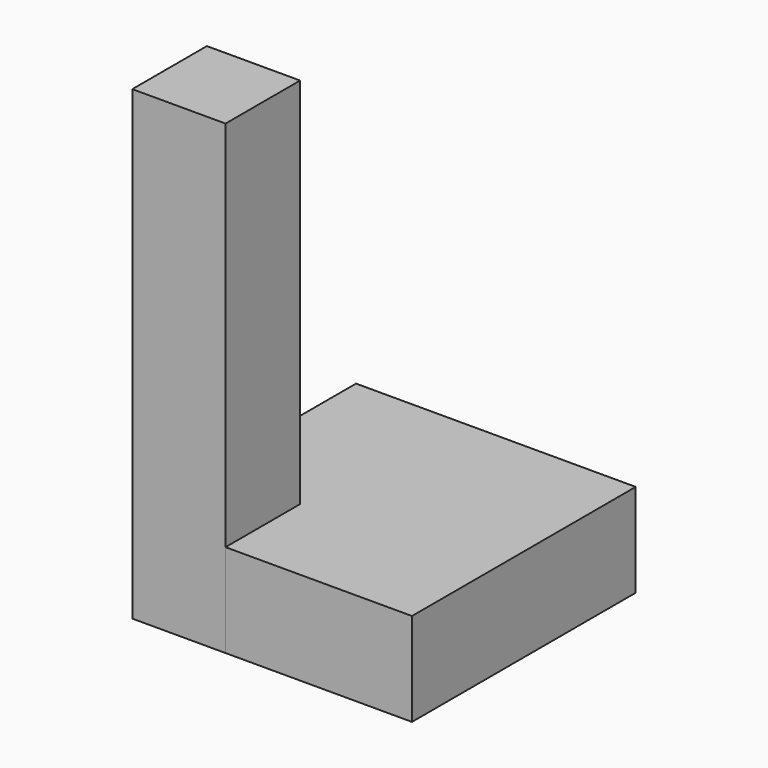
from build123d import *

# Parameters (mm, degrees)
BOX_W        = 30
BOX_H        = 30
BOX_DEPTH    = 10
BOX001_W     = 10
BOX001_H     = 10
BOX001_DEPTH = 50


with BuildPart() as obj1:
    # Box → Box (new body)
    with BuildSketch(Plane.XY):
        with Locations((15, 15)):
            Rectangle(BOX_W, BOX_H)
    extrude(amount=BOX_DEPTH)


with BuildPart() as cube_int:
    # Box001 → Box001 (new body)
    with BuildSketch(Plane.XY):
        with Locations((5, 5)):
            Rectangle(BOX001_W, BOX001_H)
    extrude(amount=BOX001_DEPTH)


solid = Compound([obj1.part, cube_int.part])
